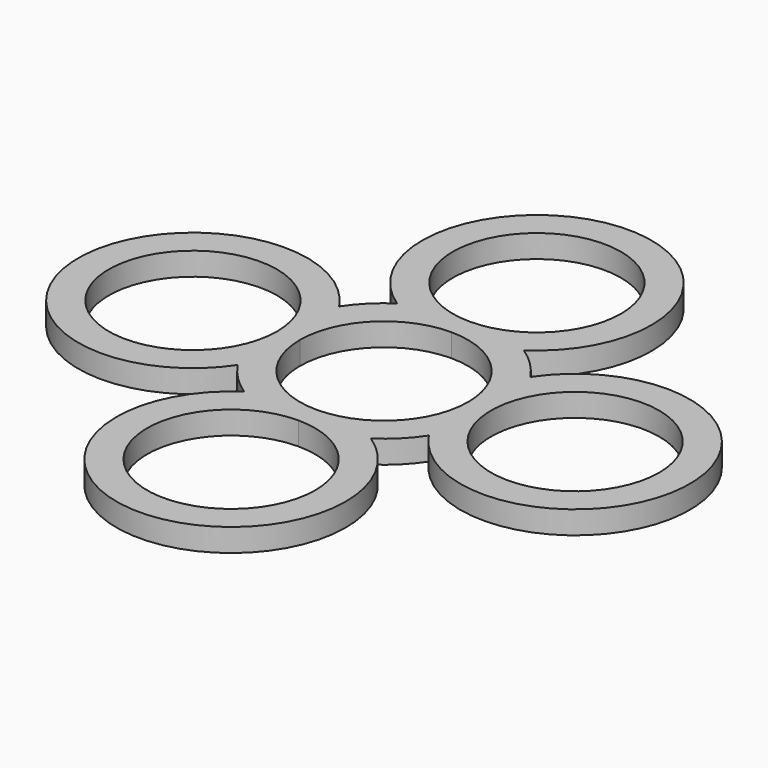
from build123d import *

# Parameters (mm, degrees)
F0_R     = 11
F1_DEPTH = 3


with BuildPart() as f1:
    # F0 (on Top) → F1 (new body)
    with BuildSketch(Plane.XY):
        with BuildLine():
            ThreePointArc((-12.5, 8.2915619759), (-40, 0), (-12.5, -8.2915619759))
            ThreePointArc((-12.5, -8.2915619759), (-10.6066017178, -10.6066017178), (-8.2915619759, -12.5))
            ThreePointArc((-8.2915619759, -12.5), (0, -40), (8.2915619759, -12.5))
            ThreePointArc((8.2915619759, -12.5), (10.6066017178, -10.6066017178), (12.5, -8.2915619759))
            ThreePointArc((12.5, -8.2915619759), (40, 0), (12.5, 8.2915619759))
            ThreePointArc((12.5, 8.2915619759), (10.6066017178, 10.6066017178), (8.2915619759, 12.5))
            ThreePointArc((8.2915619759, 12.5), (0, 40), (-8.2915619759, 12.5))
            ThreePointArc((-8.2915619759, 12.5), (-10.6066017178, 10.6066017178), (-12.5, 8.2915619759))
        make_face()
        with BuildLine():
            ThreePointArc((11, -25), (-7.7781745931, -32.7781745931), (0, -14))
            ThreePointArc((0, -14), (7.7781745931, -17.2218254069), (11, -25))
        make_face(mode=Mode.SUBTRACT)
        with Locations((-25, 0)):
            Circle(F0_R, mode=Mode.SUBTRACT)
        with BuildLine():
            ThreePointArc((0, 11), (7.7781745931, 7.7781745931), (11, 0))
            ThreePointArc((11, 0), (7.7781745931, -7.7781745931), (0, -11))
            ThreePointArc((0, -11), (-7.7781745931, -7.7781745931), (-11, 0))
            ThreePointArc((-11, 0), (-7.7781745931, 7.7781745931), (0, 11))
        make_face(mode=Mode.SUBTRACT)
        with Locations((25, 0)):
            Circle(F0_R, mode=Mode.SUBTRACT)
        with BuildLine():
            ThreePointArc((11, 25), (7.7781745931, 17.2218254069), (0, 14))
            ThreePointArc((0, 14), (-7.7781745931, 32.7781745931), (11, 25))
        make_face(mode=Mode.SUBTRACT)
    extrude(amount=F1_DEPTH)


solid = f1.part
